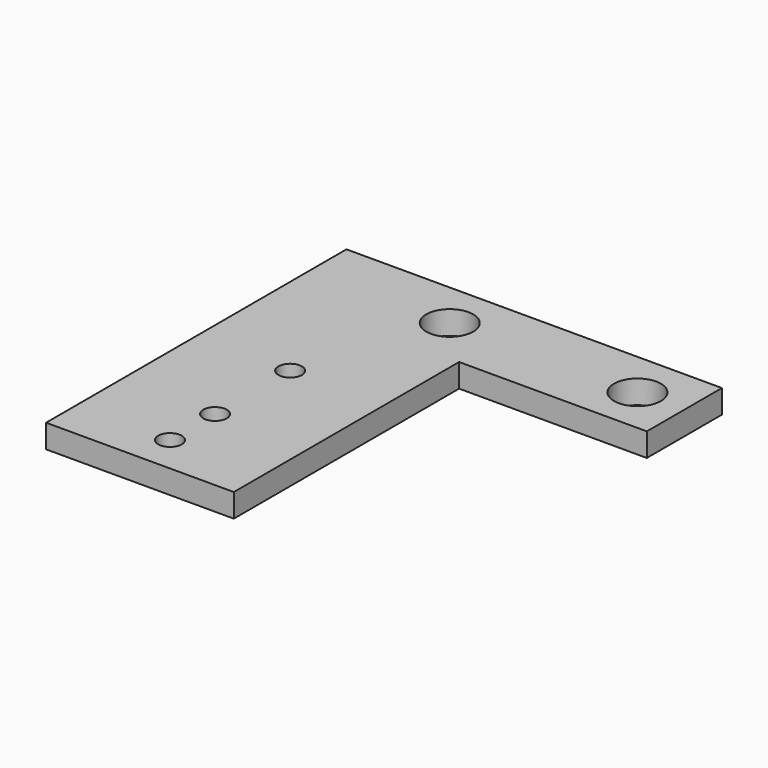
from build123d import *

# Parameters (mm, degrees)
F0_R     = 3.175
F0_W     = 25.4
F0_H     = 38.1
F0_R_2   = 1.5875
F1_DEPTH = 3.175


with BuildPart() as f1:
    # F0 (on Top) → F1 (new body)
    with BuildSketch(Plane.XY):
        Polygon((-50.8, 50.8), (-50.8, 38.1), (-25.4, 38.1), (0, 38.1), (0, 50.8), align=None)
        with Locations((-31.75, 44.45)):
            Circle(F0_R, mode=Mode.SUBTRACT)
        with Locations((-6.35, 44.45)):
            Circle(F0_R, mode=Mode.SUBTRACT)
        with Locations((-38.1, 19.05)):
            Rectangle(F0_W, F0_H)
        with Locations((-38.1, 5.08)):
            Circle(F0_R_2, mode=Mode.SUBTRACT)
        with Locations((-38.1, 12.7)):
            Circle(F0_R_2, mode=Mode.SUBTRACT)
        with Locations((-38.1, 25.4)):
            Circle(F0_R_2, mode=Mode.SUBTRACT)
    extrude(amount=F1_DEPTH)


solid = f1.part
